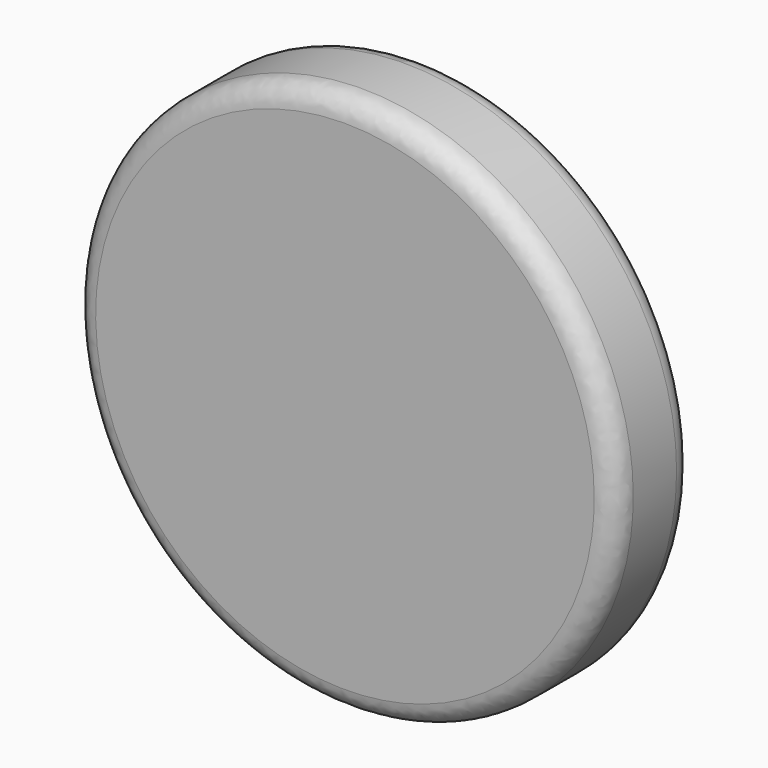
from build123d import *

# Parameters (mm, degrees)
F0_R     = 63.5
F1_DEPTH = 20.32
F2_R     = 63.5
F3_DEPTH = 2.54
F4_R     = 5.08


with BuildPart() as f1:
    # F0 (on Front) → F1 (new body)
    with BuildSketch(Plane.XZ):
        Circle(F0_R)
        with BuildLine():
            ThreePointArc((41.82162, 24.082768), (46.622628, 12.464274), (48.26, 0))
            ThreePointArc((48.26, 0), (47.413582, -8.998878), (44.90402, -17.682099))
            ThreePointArc((44.90402, -17.682099), (32.785149, -35.414144), (14.172777, -46.131985))
            ThreePointArc((14.172777, -46.131985), (-7.246687, -47.712819), (-27.230856, -39.843545))
            ThreePointArc((-27.230856, -39.843545), (-41.82162, -24.082768), (-48.129099, -3.552103))
            ThreePointArc((-48.129099, -3.552103), (-44.90402, 17.682099), (-32.785149, 35.414144))
            ThreePointArc((-32.785149, 35.414144), (-14.172777, 46.131985), (7.246687, 47.712819))
            ThreePointArc((7.246687, 47.712819), (27.230856, 39.843545), (41.82162, 24.082768))
        make_face(mode=Mode.SUBTRACT)
    extrude(amount=-F1_DEPTH)

    # F2 (on Front) → F3 (join)
    with BuildSketch(Plane.XZ):
        Circle(F2_R)
    extrude(amount=F3_DEPTH)

    # F4
    f4_edges = [f1.edges().sort_by_distance(p)[0] for p in [
        (-63.5, -2.54, 0),
        (-63.5, 20.32, 0),
        (63.5, 8.89, 0),
    ]]
    fillet(f4_edges, radius=F4_R)


solid = f1.part
